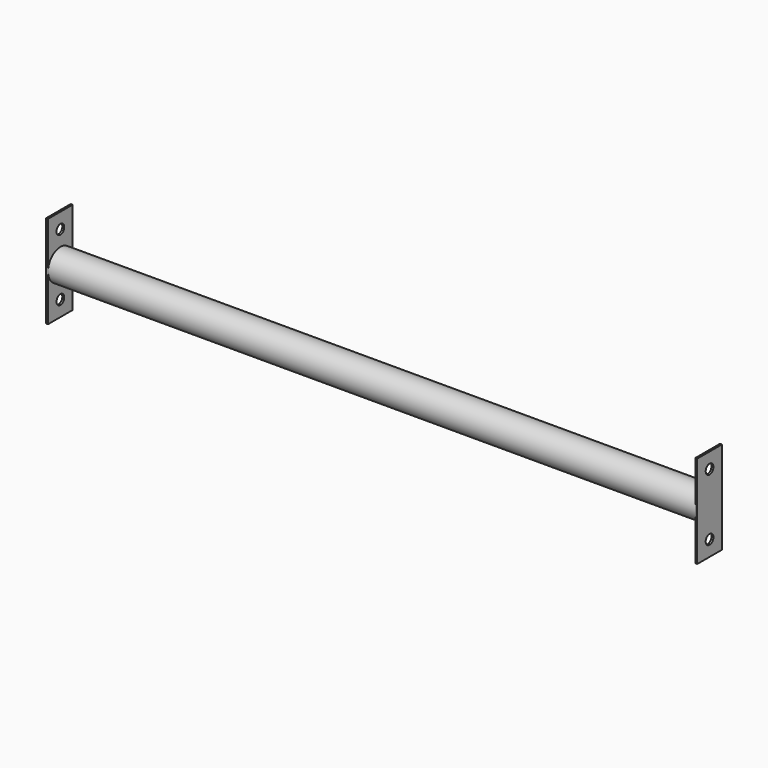
from build123d import *

# Parameters (mm, degrees)
F0_R     = 25.4
F1_DEPTH = 1069.975
F2_W     = 50.8
F2_H     = 152.4
F3_DEPTH = 3.175
F5_D     = 15.875
F7_DEPTH = 3.175
F9_D     = 15.875


with BuildPart() as f1:
    # F0 (on Right) → F1 (new body)
    with BuildSketch(Plane.YZ):
        Circle(F0_R)
    extrude(amount=F1_DEPTH)

    # F2 (on Right) → F3 (join)
    with BuildSketch(Plane.YZ):
        Rectangle(F2_W, F2_H)
    extrude(amount=F3_DEPTH)

    # F5 (through all)
    with Locations(Plane(origin=(0, 0, 0), x_dir=(0, -1, 0), z_dir=(-1, 0, 0))):
        with Locations((0, 50.8), (0, -50.8)):
            Hole(F5_D / 2)

    # F6 (on face) → F7 (join)
    with BuildSketch(Plane.YZ.offset(1069.975)):
        Polygon((25.4, 0), (25.4, 76.2), (-25.4, 76.2), (-25.4, 0), (-25.4, -76.2), (25.4, -76.2), align=None)
    extrude(amount=-F7_DEPTH)

    # F9 (through all)
    with Locations(Plane.YZ.offset(1069.975)):
        with Locations((0, 50.8), (0, -50.8)):
            Hole(F9_D / 2)


solid = f1.part
